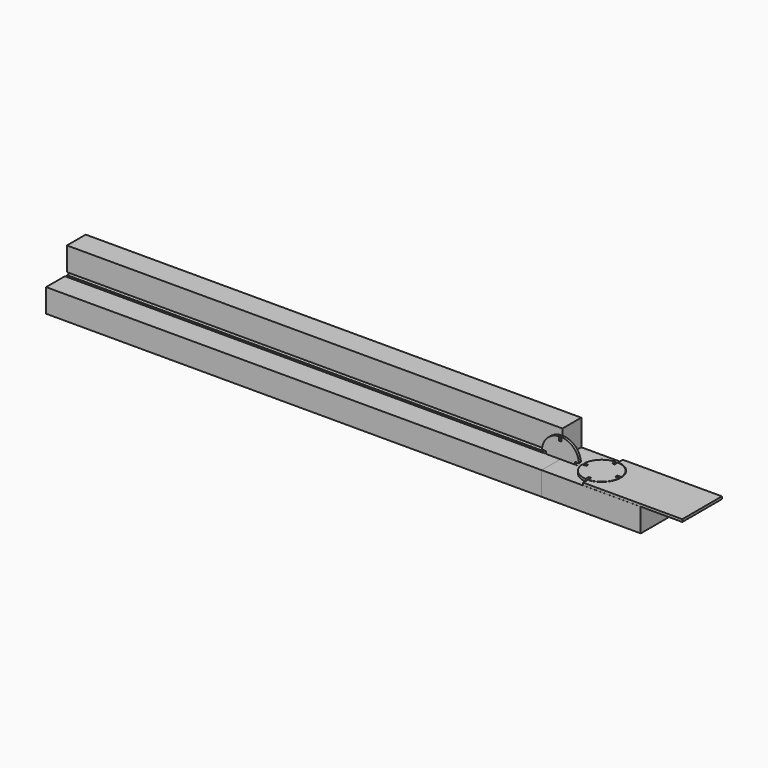
from build123d import *

# Parameters (mm, degrees)
F1_DEPTH   = 0.635
F3_DEPTH   = 0.635
F5_DEPTH   = 254
F6_W       = 25.4
F6_H       = 12.0396
F7_DEPTH   = 50.8
F8_W       = 50.8
F8_H       = 25.4
F9_DEPTH   = 0.635
F10_OFFSET = 0.254


with BuildPart() as f1:
    # F0 (on Front) → F1 (new body, symmetric)
    with BuildSketch(Plane.XZ):
        with BuildLine():
            Line((-0.635, 7.4718097624), (-0.635, 9.5038097624))
            ThreePointArc((-0.635, 9.5038097624), (-6.7351920908, 6.7351920908), (-9.5038097624, 0.635))
            Line((-9.5038097624, 0.635), (-7.4718097624, 0.635))
            Line((-7.4718097624, 0.635), (-7.4718097624, -0.635))
            Line((-7.4718097624, -0.635), (-9.5038097624, -0.635))
            ThreePointArc((-9.5038097624, -0.635), (-6.7351920908, -6.7351920908), (-0.635, -9.5038097624))
            Line((-0.635, -9.5038097624), (-0.635, -7.4718097624))
            Line((-0.635, -7.4718097624), (0.635, -7.4718097624))
            Line((0.635, -7.4718097624), (0.635, -9.5038097624))
            ThreePointArc((0.635, -9.5038097624), (6.7351920908, -6.7351920908), (9.5038097624, -0.635))
            Line((9.5038097624, -0.635), (7.4718097624, -0.635))
            Line((7.4718097624, -0.635), (7.4718097624, 0.635))
            Line((7.4718097624, 0.635), (9.5038097624, 0.635))
            ThreePointArc((9.5038097624, 0.635), (6.7351920908, 6.7351920908), (0.635, 9.5038097624))
            Line((0.635, 9.5038097624), (0.635, 7.4718097624))
            Line((0.635, 7.4718097624), (-0.635, 7.4718097624))
        make_face()
    extrude(amount=F1_DEPTH, both=True)


with BuildPart() as f3:
    # F2 (on Top) → F3 (new body, symmetric)
    with BuildSketch(Plane.XY):
        with BuildLine():
            Line((21.2958350215, -7.4718097624), (21.2958350215, -9.5038097624))
            ThreePointArc((21.2958350215, -9.5038097624), (27.3960271123, -6.7351920908), (30.1646447839, -0.635))
            Line((30.1646447839, -0.635), (28.1326447839, -0.635))
            Line((28.1326447839, -0.635), (28.1326447839, 0.635))
            Line((28.1326447839, 0.635), (30.1646447839, 0.635))
            ThreePointArc((30.1646447839, 0.635), (27.3960271123, 6.7351920908), (21.2958350215, 9.5038097624))
            Line((21.2958350215, 9.5038097624), (21.2958350215, 7.4718097624))
            Line((21.2958350215, 7.4718097624), (20.0258350215, 7.4718097624))
            Line((20.0258350215, 7.4718097624), (20.0258350215, 9.5038097624))
            ThreePointArc((20.0258350215, 9.5038097624), (13.9256429307, 6.7351920908), (11.1570252591, 0.635))
            Line((11.1570252591, 0.635), (13.1890252591, 0.635))
            Line((13.1890252591, 0.635), (13.1890252591, -0.635))
            Line((13.1890252591, -0.635), (11.1570252591, -0.635))
            ThreePointArc((11.1570252591, -0.635), (13.9256429307, -6.7351920908), (20.0258350215, -9.5038097624))
            Line((20.0258350215, -9.5038097624), (20.0258350215, -7.4718097624))
            Line((20.0258350215, -7.4718097624), (21.2958350215, -7.4718097624))
        make_face()
    extrude(amount=F3_DEPTH, both=True)


with BuildPart() as f5:
    # F4 (on Right) → F5 (new body)
    with BuildSketch(Plane.YZ):
        Polygon((-12.7, -12.7), (12.7, -12.7), (12.7, 12.7), (0.6604, 12.7), (0.6604, 9.5504), (0.6604, 0.6604), (9.5504, 0.6604), (9.5504, -0.6604), (0.6604, -0.6604), (0.6604, -9.5504), (-0.6604, -9.5504), (-0.6604, -0.6604), (-9.5504, -0.6604), (-12.7, -0.6604), align=None)
    extrude(amount=-F5_DEPTH)


with BuildPart() as f7:
    # F6 (on face) → F7 (new body)
    with BuildSketch(Plane.YZ):
        with Locations((0, -6.6802)):
            Rectangle(F6_W, F6_H)
    extrude(amount=F7_DEPTH)


with BuildPart() as f9:
    # F8 (on Top) → F9 (new body, symmetric)
    with BuildSketch(Plane.XY):
        with Locations((46.6932952404, 0)):
            Rectangle(F8_W, F8_H)
    extrude(amount=F9_DEPTH, both=True)

    # F10: cut F3, made larger all round first
    f10_tool = offset(f3.part, amount=F10_OFFSET, kind=Kind.INTERSECTION, mode=Mode.PRIVATE)
    add(f10_tool, mode=Mode.SUBTRACT)


solid = Compound([f1.part, f3.part, f5.part, f7.part, f9.part])
